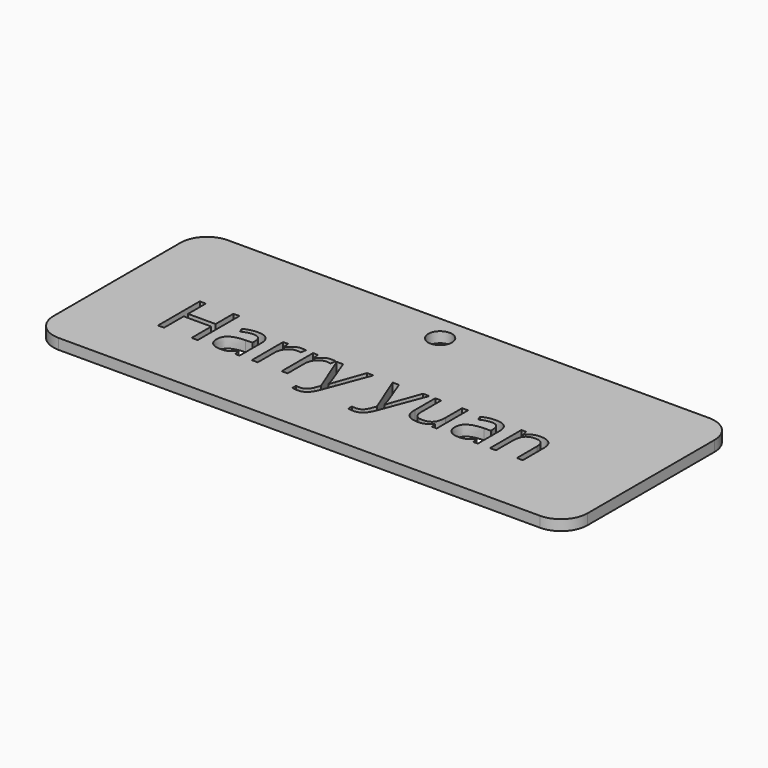
from build123d import *

# Parameters (mm, degrees)
F0_R     = 2.2484982125
F1_DEPTH = 2


with BuildPart() as f1:
    # F0 (on Top) → F1 (new body)
    with BuildSketch(Plane.XY):
        with BuildLine():
            ThreePointArc((0, 5), (1.4644660941, 1.4644660941), (5, 0))
            Line((5, 0), (96.3227105141, 0))
            ThreePointArc((96.3227105141, 0), (99.85824442, 1.4644660941), (101.3227105141, 5))
            Line((101.3227105141, 5), (101.3227105141, 35.1488170028))
            ThreePointArc((101.3227105141, 35.1488170028), (99.85824442, 38.6843509087), (96.3227105141, 40.1488170028))
            Line((96.3227105141, 40.1488170028), (5, 40.1488170028))
            ThreePointArc((5, 40.1488170028), (1.4644660941, 38.6843509087), (0, 35.1488170028))
            Line((0, 35.1488170028), (0, 5))
        make_face()
        Polygon((21.5085725652, 22.2339922686), (21.5085725652, 12.3186276853), (20.3562288152, 12.3186276853), (20.3562288152, 16.9844262964), (15.1327045096, 16.9844262964), (15.1327045096, 12.3186276853), (13.9803607596, 12.3186276853), (13.9803607596, 22.2339922686), (15.1327045096, 22.2339922686), (15.1327045096, 18.0152422686), (20.3562288152, 18.0152422686), (20.3562288152, 22.2339922686), align=None, mode=Mode.SUBTRACT)
        with BuildLine():
            Line((44.9417322874, 12.2773950464), (41.942600343, 19.7513533798))
            Line((41.942600343, 19.7513533798), (43.1513677041, 19.7513533798))
            Line((43.1513677041, 19.7513533798), (44.7789718707, 15.5130721298))
            add(Edge.make_bspline(
                [(44.7789718707, 15.5130721298), (45.3128260374, 14.0612492131), (45.4430343707, 13.4167179631)],
                knots=[0, 0, 0, 1, 1, 1], degree=2))
            Line((45.4430343707, 13.4167179631), (45.497287843, 13.4167179631))
            add(Edge.make_bspline(
                [(45.497287843, 13.4167179631), (45.5840933985, 13.7639401853), (45.8662114541, 14.6016137964)],
                knots=[0, 0, 0, 1, 1, 1], degree=2))
            add(Edge.make_bspline(
                [(45.8662114541, 14.6016137964), (46.1483295096, 15.4392874075), (47.7086593707, 19.7513533798)],
                knots=[0, 0, 0, 1, 1, 1], degree=2))
            Line((47.7086593707, 19.7513533798), (48.915256593, 19.7513533798))
            Line((48.915256593, 19.7513533798), (45.7208121485, 11.2878117131))
            add(Edge.make_bspline(
                [(45.7208121485, 11.2878117131), (45.2455517319, 10.0334714353), (44.6118711763, 9.5072127548)],
                knots=[0, 0, 0, 1, 1, 1], degree=2))
            add(Edge.make_bspline(
                [(44.6118711763, 9.5072127548), (43.9781906207, 8.9809540742), (43.055881593, 8.9809540742)],
                knots=[0, 0, 0, 1, 1, 1], degree=2))
            add(Edge.make_bspline(
                [(43.055881593, 8.9809540742), (42.5393885374, 8.9809540742), (42.0380864541, 9.0981415742)],
                knots=[0, 0, 0, 1, 1, 1], degree=2))
            Line((42.0380864541, 9.0981415742), (42.0380864541, 9.9987492131))
            add(Edge.make_bspline(
                [(42.0380864541, 9.9987492131), (42.411350343, 9.9184540742), (42.8714197874, 9.9184540742)],
                knots=[0, 0, 0, 1, 1, 1], degree=2))
            add(Edge.make_bspline(
                [(42.8714197874, 9.9184540742), (44.032444093, 9.9184540742), (44.5272357596, 11.2205374075)],
                knots=[0, 0, 0, 1, 1, 1], degree=2))
            Line((44.5272357596, 11.2205374075), (44.9417322874, 12.2773950464))
        make_face(mode=Mode.SUBTRACT)
        with BuildLine():
            Line((29.4643017319, 12.3186276853), (28.6287982596, 12.3186276853))
            Line((28.6287982596, 12.3186276853), (28.4052739541, 13.3776554631))
            Line((28.4052739541, 13.3776554631), (28.3510204819, 13.3776554631))
            add(Edge.make_bspline(
                [(28.3510204819, 13.3776554631), (27.7954649263, 12.6788707409), (27.2431645791, 12.4303898381)],
                knots=[0, 0, 0, 1, 1, 1], degree=2))
            add(Edge.make_bspline(
                [(27.2431645791, 12.4303898381), (26.6908642319, 12.1819089353), (25.8618711763, 12.1819089353)],
                knots=[0, 0, 0, 1, 1, 1], degree=2))
            add(Edge.make_bspline(
                [(25.8618711763, 12.1819089353), (24.7572704819, 12.1819089353), (24.130100343, 12.7526554631)],
                knots=[0, 0, 0, 1, 1, 1], degree=2))
            add(Edge.make_bspline(
                [(24.130100343, 12.7526554631), (23.5029302041, 13.3234019909), (23.5029302041, 14.3737492131)],
                knots=[0, 0, 0, 1, 1, 1], degree=2))
            add(Edge.make_bspline(
                [(23.5029302041, 14.3737492131), (23.5029302041, 16.6241832409), (27.1031906207, 16.7326901853)],
                knots=[0, 0, 0, 1, 1, 1], degree=2))
            Line((27.1031906207, 16.7326901853), (28.3640413152, 16.7739228242))
            Line((28.3640413152, 16.7739228242), (28.3640413152, 17.2361624075))
            add(Edge.make_bspline(
                [(28.3640413152, 17.2361624075), (28.3640413152, 18.1107283798), (27.9886072874, 18.5273950464)],
                knots=[0, 0, 0, 1, 1, 1], degree=2))
            add(Edge.make_bspline(
                [(27.9886072874, 18.5273950464), (27.6131732596, 18.9440617131), (26.7841802041, 18.9440617131)],
                knots=[0, 0, 0, 1, 1, 1], degree=2))
            add(Edge.make_bspline(
                [(26.7841802041, 18.9440617131), (25.8553607596, 18.9440617131), (24.6834857596, 18.3754853242)],
                knots=[0, 0, 0, 1, 1, 1], degree=2))
            Line((24.6834857596, 18.3754853242), (24.3362635374, 19.2370304631))
            add(Edge.make_bspline(
                [(24.3362635374, 19.2370304631), (24.8853086763, 19.5343394909), (25.5396055513, 19.7036103242)],
                knots=[0, 0, 0, 1, 1, 1], degree=2))
            add(Edge.make_bspline(
                [(25.5396055513, 19.7036103242), (26.1939024263, 19.8728811575), (26.8536246485, 19.8728811575)],
                knots=[0, 0, 0, 1, 1, 1], degree=2))
            add(Edge.make_bspline(
                [(26.8536246485, 19.8728811575), (28.1817496485, 19.8728811575), (28.8230256902, 19.2836884492)],
                knots=[0, 0, 0, 1, 1, 1], degree=2))
            add(Edge.make_bspline(
                [(28.8230256902, 19.2836884492), (29.4643017319, 18.6944957409), (29.4643017319, 17.3924124075)],
                knots=[0, 0, 0, 1, 1, 1], degree=2))
            Line((29.4643017319, 17.3924124075), (29.4643017319, 12.3186276853))
        make_face(mode=Mode.SUBTRACT)
        with BuildLine():
            add(Edge.make_bspline(
                [(33.8913850652, 19.4941919214), (34.4751524263, 19.8880721298), (35.1739371485, 19.8880721298)],
                knots=[0, 0, 0, 1, 1, 1], degree=2))
            add(Edge.make_bspline(
                [(35.1739371485, 19.8880721298), (35.6687288152, 19.8880721298), (36.0615239541, 19.805606852)],
                knots=[0, 0, 0, 1, 1, 1], degree=2))
            Line((36.0615239541, 19.805606852), (35.9052739541, 18.7617700464))
            add(Edge.make_bspline(
                [(35.9052739541, 18.7617700464), (35.4452045096, 18.8637665742), (35.0914718707, 18.8637665742)],
                knots=[0, 0, 0, 1, 1, 1], degree=2))
            add(Edge.make_bspline(
                [(35.0914718707, 18.8637665742), (34.188694093, 18.8637665742), (33.5485031207, 18.1313446992)],
                knots=[0, 0, 0, 1, 1, 1], degree=2))
            add(Edge.make_bspline(
                [(33.5485031207, 18.1313446992), (32.9083121485, 17.3989228242), (32.9083121485, 16.3073429631)],
                knots=[0, 0, 0, 1, 1, 1], degree=2))
            Line((32.9083121485, 16.3073429631), (32.9083121485, 12.3186276853))
            Line((32.9083121485, 12.3186276853), (31.7820100652, 12.3186276853))
            Line((31.7820100652, 12.3186276853), (31.7820100652, 19.7513533798))
            Line((31.7820100652, 19.7513533798), (32.7108295096, 19.7513533798))
            Line((32.7108295096, 19.7513533798), (32.841037843, 18.3754853242))
            Line((32.841037843, 18.3754853242), (32.8952913152, 18.3754853242))
            add(Edge.make_bspline(
                [(32.8952913152, 18.3754853242), (33.3076177041, 19.1003117131), (33.8913850652, 19.4941919214)],
                knots=[0, 0, 0, 1, 1, 1], degree=2))
        make_face(mode=Mode.SUBTRACT)
        with BuildLine():
            add(Edge.make_bspline(
                [(39.5619579819, 19.4941919214), (40.145725343, 19.8880721298), (40.8445100652, 19.8880721298)],
                knots=[0, 0, 0, 1, 1, 1], degree=2))
            add(Edge.make_bspline(
                [(40.8445100652, 19.8880721298), (41.3393017319, 19.8880721298), (41.7320968707, 19.805606852)],
                knots=[0, 0, 0, 1, 1, 1], degree=2))
            Line((41.7320968707, 19.805606852), (41.5758468707, 18.7617700464))
            add(Edge.make_bspline(
                [(41.5758468707, 18.7617700464), (41.1157774263, 18.8637665742), (40.7620447874, 18.8637665742)],
                knots=[0, 0, 0, 1, 1, 1], degree=2))
            add(Edge.make_bspline(
                [(40.7620447874, 18.8637665742), (39.8592670096, 18.8637665742), (39.2190760374, 18.1313446992)],
                knots=[0, 0, 0, 1, 1, 1], degree=2))
            add(Edge.make_bspline(
                [(39.2190760374, 18.1313446992), (38.5788850652, 17.3989228242), (38.5788850652, 16.3073429631)],
                knots=[0, 0, 0, 1, 1, 1], degree=2))
            Line((38.5788850652, 16.3073429631), (38.5788850652, 12.3186276853))
            Line((38.5788850652, 12.3186276853), (37.4525829819, 12.3186276853))
            Line((37.4525829819, 12.3186276853), (37.4525829819, 19.7513533798))
            Line((37.4525829819, 19.7513533798), (38.3814024263, 19.7513533798))
            Line((38.3814024263, 19.7513533798), (38.5116107596, 18.3754853242))
            Line((38.5116107596, 18.3754853242), (38.5658642319, 18.3754853242))
            add(Edge.make_bspline(
                [(38.5658642319, 18.3754853242), (38.9781906207, 19.1003117131), (39.5619579819, 19.4941919214)],
                knots=[0, 0, 0, 1, 1, 1], degree=2))
        make_face(mode=Mode.SUBTRACT)
        with BuildLine():
            Line((55.5493711763, 12.2773950464), (52.5502392319, 19.7513533798))
            Line((52.5502392319, 19.7513533798), (53.759006593, 19.7513533798))
            Line((53.759006593, 19.7513533798), (55.3866107596, 15.5130721298))
            add(Edge.make_bspline(
                [(55.3866107596, 15.5130721298), (55.9204649263, 14.0612492131), (56.0506732596, 13.4167179631)],
                knots=[0, 0, 0, 1, 1, 1], degree=2))
            Line((56.0506732596, 13.4167179631), (56.1049267319, 13.4167179631))
            add(Edge.make_bspline(
                [(56.1049267319, 13.4167179631), (56.1917322874, 13.7639401853), (56.473850343, 14.6016137964)],
                knots=[0, 0, 0, 1, 1, 1], degree=2))
            add(Edge.make_bspline(
                [(56.473850343, 14.6016137964), (56.7559683985, 15.4392874075), (58.3162982596, 19.7513533798)],
                knots=[0, 0, 0, 1, 1, 1], degree=2))
            Line((58.3162982596, 19.7513533798), (59.5228954819, 19.7513533798))
            Line((59.5228954819, 19.7513533798), (56.3284510374, 11.2878117131))
            add(Edge.make_bspline(
                [(56.3284510374, 11.2878117131), (55.8531906207, 10.0334714353), (55.2195100652, 9.5072127548)],
                knots=[0, 0, 0, 1, 1, 1], degree=2))
            add(Edge.make_bspline(
                [(55.2195100652, 9.5072127548), (54.5858295096, 8.9809540742), (53.6635204819, 8.9809540742)],
                knots=[0, 0, 0, 1, 1, 1], degree=2))
            add(Edge.make_bspline(
                [(53.6635204819, 8.9809540742), (53.1470274263, 8.9809540742), (52.645725343, 9.0981415742)],
                knots=[0, 0, 0, 1, 1, 1], degree=2))
            Line((52.645725343, 9.0981415742), (52.645725343, 9.9987492131))
            add(Edge.make_bspline(
                [(52.645725343, 9.9987492131), (53.0189892319, 9.9184540742), (53.4790586763, 9.9184540742)],
                knots=[0, 0, 0, 1, 1, 1], degree=2))
            add(Edge.make_bspline(
                [(53.4790586763, 9.9184540742), (54.6400829819, 9.9184540742), (55.1348746485, 11.2205374075)],
                knots=[0, 0, 0, 1, 1, 1], degree=2))
            Line((55.1348746485, 11.2205374075), (55.5493711763, 12.2773950464))
        make_face(mode=Mode.SUBTRACT)
        with BuildLine():
            Line((60.6491975652, 19.7513533798), (61.7885204819, 19.7513533798))
            Line((61.7885204819, 19.7513533798), (61.7885204819, 14.9293047686))
            add(Edge.make_bspline(
                [(61.7885204819, 14.9293047686), (61.7885204819, 14.0200165742), (62.2019319402, 13.5729679631)],
                knots=[0, 0, 0, 1, 1, 1], degree=2))
            add(Edge.make_bspline(
                [(62.2019319402, 13.5729679631), (62.6153433985, 13.125919352), (63.4964197874, 13.125919352)],
                knots=[0, 0, 0, 1, 1, 1], degree=2))
            add(Edge.make_bspline(
                [(63.4964197874, 13.125919352), (64.6639545096, 13.125919352), (65.2021489541, 13.7628551159)],
                knots=[0, 0, 0, 1, 1, 1], degree=2))
            add(Edge.make_bspline(
                [(65.2021489541, 13.7628551159), (65.7403433985, 14.3997908798), (65.7403433985, 15.8451033798)],
                knots=[0, 0, 0, 1, 1, 1], degree=2))
            Line((65.7403433985, 15.8451033798), (65.7403433985, 19.7513533798))
            Line((65.7403433985, 19.7513533798), (66.8666454819, 19.7513533798))
            Line((66.8666454819, 19.7513533798), (66.8666454819, 12.3186276853))
            Line((66.8666454819, 12.3186276853), (65.9378260374, 12.3186276853))
            Line((65.9378260374, 12.3186276853), (65.7750656207, 13.3147214353))
            Line((65.7750656207, 13.3147214353), (65.7143017319, 13.3147214353))
            add(Edge.make_bspline(
                [(65.7143017319, 13.3147214353), (65.3692496485, 12.7656762964), (64.755100343, 12.4737926159)],
                knots=[0, 0, 0, 1, 1, 1], degree=2))
            add(Edge.make_bspline(
                [(64.755100343, 12.4737926159), (64.1409510374, 12.1819089353), (63.3531906207, 12.1819089353)],
                knots=[0, 0, 0, 1, 1, 1], degree=2))
            add(Edge.make_bspline(
                [(63.3531906207, 12.1819089353), (61.9968538152, 12.1819089353), (61.3230256902, 12.8264401853)],
                knots=[0, 0, 0, 1, 1, 1], degree=2))
            add(Edge.make_bspline(
                [(61.3230256902, 12.8264401853), (60.6491975652, 13.4709714353), (60.6491975652, 14.8880721298)],
                knots=[0, 0, 0, 1, 1, 1], degree=2))
            Line((60.6491975652, 14.8880721298), (60.6491975652, 19.7513533798))
        make_face(mode=Mode.SUBTRACT)
        with BuildLine():
            Line((74.6596142319, 12.3186276853), (73.8241107596, 12.3186276853))
            Line((73.8241107596, 12.3186276853), (73.6005864541, 13.3776554631))
            Line((73.6005864541, 13.3776554631), (73.5463329819, 13.3776554631))
            add(Edge.make_bspline(
                [(73.5463329819, 13.3776554631), (72.9907774263, 12.6788707409), (72.4384770791, 12.4303898381)],
                knots=[0, 0, 0, 1, 1, 1], degree=2))
            add(Edge.make_bspline(
                [(72.4384770791, 12.4303898381), (71.8861767319, 12.1819089353), (71.0571836763, 12.1819089353)],
                knots=[0, 0, 0, 1, 1, 1], degree=2))
            add(Edge.make_bspline(
                [(71.0571836763, 12.1819089353), (69.9525829819, 12.1819089353), (69.325412843, 12.7526554631)],
                knots=[0, 0, 0, 1, 1, 1], degree=2))
            add(Edge.make_bspline(
                [(69.325412843, 12.7526554631), (68.6982427041, 13.3234019909), (68.6982427041, 14.3737492131)],
                knots=[0, 0, 0, 1, 1, 1], degree=2))
            add(Edge.make_bspline(
                [(68.6982427041, 14.3737492131), (68.6982427041, 16.6241832409), (72.2985031207, 16.7326901853)],
                knots=[0, 0, 0, 1, 1, 1], degree=2))
            Line((72.2985031207, 16.7326901853), (73.5593538152, 16.7739228242))
            Line((73.5593538152, 16.7739228242), (73.5593538152, 17.2361624075))
            add(Edge.make_bspline(
                [(73.5593538152, 17.2361624075), (73.5593538152, 18.1107283798), (73.1839197874, 18.5273950464)],
                knots=[0, 0, 0, 1, 1, 1], degree=2))
            add(Edge.make_bspline(
                [(73.1839197874, 18.5273950464), (72.8084857596, 18.9440617131), (71.9794927041, 18.9440617131)],
                knots=[0, 0, 0, 1, 1, 1], degree=2))
            add(Edge.make_bspline(
                [(71.9794927041, 18.9440617131), (71.0506732596, 18.9440617131), (69.8787982596, 18.3754853242)],
                knots=[0, 0, 0, 1, 1, 1], degree=2))
            Line((69.8787982596, 18.3754853242), (69.5315760374, 19.2370304631))
            add(Edge.make_bspline(
                [(69.5315760374, 19.2370304631), (70.0806211763, 19.5343394909), (70.7349180513, 19.7036103242)],
                knots=[0, 0, 0, 1, 1, 1], degree=2))
            add(Edge.make_bspline(
                [(70.7349180513, 19.7036103242), (71.3892149263, 19.8728811575), (72.0489371485, 19.8728811575)],
                knots=[0, 0, 0, 1, 1, 1], degree=2))
            add(Edge.make_bspline(
                [(72.0489371485, 19.8728811575), (73.3770621485, 19.8728811575), (74.0183381902, 19.2836884492)],
                knots=[0, 0, 0, 1, 1, 1], degree=2))
            add(Edge.make_bspline(
                [(74.0183381902, 19.2836884492), (74.6596142319, 18.6944957409), (74.6596142319, 17.3924124075)],
                knots=[0, 0, 0, 1, 1, 1], degree=2))
            Line((74.6596142319, 17.3924124075), (74.6596142319, 12.3186276853))
        make_face(mode=Mode.SUBTRACT)
        with BuildLine():
            Line((83.1904302041, 12.3186276853), (82.0641281207, 12.3186276853))
            Line((82.0641281207, 12.3186276853), (82.0641281207, 17.1276554631))
            add(Edge.make_bspline(
                [(82.0641281207, 17.1276554631), (82.0641281207, 18.0347735186), (81.6507166624, 18.4829071992)],
                knots=[0, 0, 0, 1, 1, 1], degree=2))
            add(Edge.make_bspline(
                [(81.6507166624, 18.4829071992), (81.2373052041, 18.9310408798), (80.3540586763, 18.9310408798)],
                knots=[0, 0, 0, 1, 1, 1], degree=2))
            add(Edge.make_bspline(
                [(80.3540586763, 18.9310408798), (79.188694093, 18.9310408798), (78.6461593707, 18.3006155325)],
                knots=[0, 0, 0, 1, 1, 1], degree=2))
            add(Edge.make_bspline(
                [(78.6461593707, 18.3006155325), (78.1036246485, 17.6701901853), (78.1036246485, 16.2183672686)],
                knots=[0, 0, 0, 1, 1, 1], degree=2))
            Line((78.1036246485, 16.2183672686), (78.1036246485, 12.3186276853))
            Line((78.1036246485, 12.3186276853), (76.9773225652, 12.3186276853))
            Line((76.9773225652, 12.3186276853), (76.9773225652, 19.7513533798))
            Line((76.9773225652, 19.7513533798), (77.8931211763, 19.7513533798))
            Line((77.8931211763, 19.7513533798), (78.075412843, 18.7335582409))
            Line((78.075412843, 18.7335582409), (78.1296663152, 18.7335582409))
            add(Edge.make_bspline(
                [(78.1296663152, 18.7335582409), (78.4768885374, 19.2826033798), (79.100803468, 19.5853377548)],
                knots=[0, 0, 0, 1, 1, 1], degree=2))
            add(Edge.make_bspline(
                [(79.100803468, 19.5853377548), (79.7247183985, 19.8880721298), (80.4907774263, 19.8880721298)],
                knots=[0, 0, 0, 1, 1, 1], degree=2))
            add(Edge.make_bspline(
                [(80.4907774263, 19.8880721298), (81.8340933985, 19.8880721298), (82.5122618013, 19.2402856714)],
                knots=[0, 0, 0, 1, 1, 1], degree=2))
            add(Edge.make_bspline(
                [(82.5122618013, 19.2402856714), (83.1904302041, 18.5924992131), (83.1904302041, 17.1667179631)],
                knots=[0, 0, 0, 1, 1, 1], degree=2))
            Line((83.1904302041, 17.1667179631), (83.1904302041, 12.3186276853))
        make_face(mode=Mode.SUBTRACT)
        with Locations((49.1693988442, 35.2455154061)):
            Circle(F0_R, mode=Mode.SUBTRACT)
    extrude(amount=F1_DEPTH)


solid = f1.part
